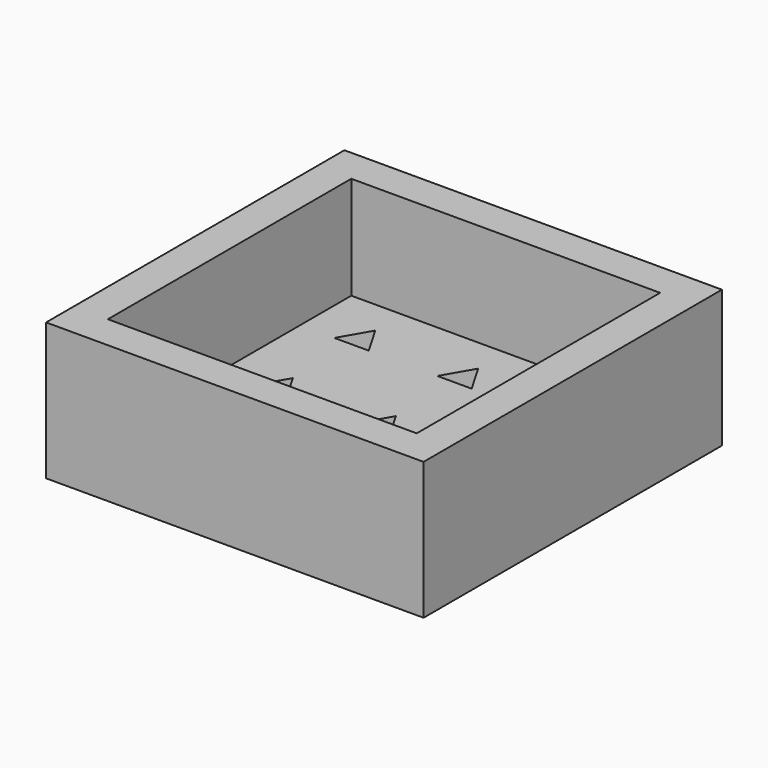
from build123d import *

# Parameters (mm, degrees)
F0_W     = 55
F0_H     = 54.330127
F1_DEPTH = 5
F2_W     = 55
F2_H     = 54.330127
F2_W_2   = 45
F2_H_2   = 44.330127
F3_DEPTH = 15


with BuildPart() as f1:
    # F0 (on Top) → F1 (new body)
    with BuildSketch(Plane.XY):
        with Locations((12.5, 17.165063)):
            Rectangle(F0_W, F0_H)
        Polygon((-5, 0), (-2.5, 4.330127), (0, 0), align=None, mode=Mode.SUBTRACT)
        Polygon((15, 0), (10, 0), (12.5, 4.330127), align=None, mode=Mode.SUBTRACT)
        Polygon((30, 0), (25, 0), (27.5, 4.330127), align=None, mode=Mode.SUBTRACT)
        Polygon((0, 15), (-5, 15), (-2.5, 19.330127), align=None, mode=Mode.SUBTRACT)
        Polygon((0, 30), (-5, 30), (-2.5, 34.330127), align=None, mode=Mode.SUBTRACT)
        Polygon((15, 15), (10, 15), (12.5, 19.330127), align=None, mode=Mode.SUBTRACT)
        Polygon((30, 15), (25, 15), (27.5, 19.330127), align=None, mode=Mode.SUBTRACT)
        Polygon((15, 30), (10, 30), (12.5, 34.330127), align=None, mode=Mode.SUBTRACT)
        Polygon((30, 30), (25, 30), (27.5, 34.330127), align=None, mode=Mode.SUBTRACT)
    extrude(amount=F1_DEPTH)

    # F2 (on face) → F3 (join)
    with BuildSketch(Plane.XY.offset(5)):
        with Locations((12.5, 17.165063)):
            Rectangle(F2_W, F2_H)
        with Locations((12.5, 17.165063)):
            Rectangle(F2_W_2, F2_H_2, mode=Mode.SUBTRACT)
    extrude(amount=F3_DEPTH)


solid = f1.part
